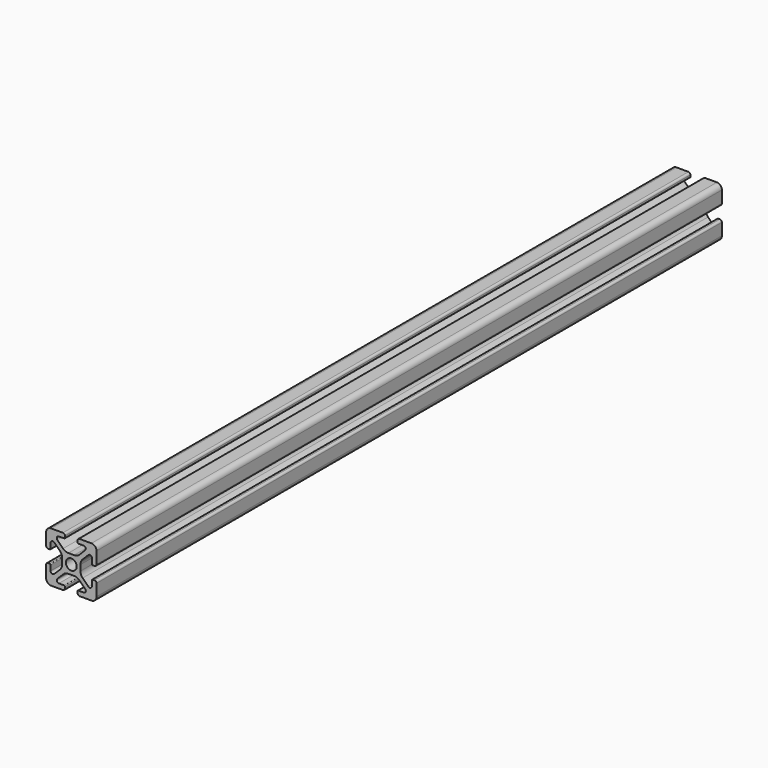
from build123d import *

# Parameters (mm, degrees)
F0_R     = 2.1463
F1_DEPTH = 310


with BuildPart() as f1:
    # F0 (on Front) → F1 (new body)
    with BuildSketch(Plane.XZ):
        with BuildLine():
            Line((-3.2893, 9.9949), (-7.9883, 9.9949))
            ThreePointArc((-7.9883, 9.9949), (-9.40718, 9.40718), (-9.9949, 7.9883))
            Line((-9.9949, 7.9883), (-9.9949, 3.2893))
            ThreePointArc((-9.9949, 3.2893), (-9.764276, 2.732524), (-9.2075, 2.5019))
            Line((-9.2075, 2.5019), (-8.4963, 2.5019))
            ThreePointArc((-8.4963, 2.5019), (-8.280774, 2.591174), (-8.1915, 2.8067))
            Line((-8.1915, 2.8067), (-8.1915, 4.9149))
            ThreePointArc((-8.1915, 4.9149), (-7.674065, 5.689296), (-6.760603, 5.507597))
            Line((-6.760603, 5.507597), (-4.505766, 3.25276))
            ThreePointArc((-4.505766, 3.25276), (-3.856054, 2.280398), (-3.627906, 1.133419))
            Line((-3.627906, 1.133419), (-3.627906, -1.133419))
            ThreePointArc((-3.627906, -1.133419), (-3.856054, -2.280398), (-4.505766, -3.25276))
            Line((-4.505766, -3.25276), (-6.760603, -5.507597))
            ThreePointArc((-6.760603, -5.507597), (-7.674065, -5.689296), (-8.1915, -4.9149))
            Line((-8.1915, -4.9149), (-8.1915, -2.8067))
            ThreePointArc((-8.1915, -2.8067), (-8.280774, -2.591174), (-8.4963, -2.5019))
            Line((-8.4963, -2.5019), (-9.2075, -2.5019))
            ThreePointArc((-9.2075, -2.5019), (-9.764276, -2.732524), (-9.9949, -3.2893))
            Line((-9.9949, -3.2893), (-9.9949, -7.9883))
            ThreePointArc((-9.9949, -7.9883), (-9.40718, -9.40718), (-7.9883, -9.9949))
            Line((-7.9883, -9.9949), (-3.2893, -9.9949))
            ThreePointArc((-3.2893, -9.9949), (-2.732524, -9.764276), (-2.5019, -9.2075))
            Line((-2.5019, -9.2075), (-2.5019, -8.4963))
            ThreePointArc((-2.5019, -8.4963), (-2.591174, -8.280774), (-2.8067, -8.1915))
            Line((-2.8067, -8.1915), (-4.9149, -8.1915))
            ThreePointArc((-4.9149, -8.1915), (-5.689296, -7.674065), (-5.507597, -6.760603))
            Line((-5.507597, -6.760603), (-3.25276, -4.505766))
            ThreePointArc((-3.25276, -4.505766), (-2.280398, -3.856054), (-1.133419, -3.627906))
            Line((-1.133419, -3.627906), (1.133419, -3.627906))
            ThreePointArc((1.133419, -3.627906), (2.280398, -3.856054), (3.25276, -4.505766))
            Line((3.25276, -4.505766), (5.507597, -6.760603))
            ThreePointArc((5.507597, -6.760603), (5.689296, -7.674065), (4.9149, -8.1915))
            Line((4.9149, -8.1915), (2.8067, -8.1915))
            ThreePointArc((2.8067, -8.1915), (2.591174, -8.280774), (2.5019, -8.4963))
            Line((2.5019, -8.4963), (2.5019, -9.2075))
            ThreePointArc((2.5019, -9.2075), (2.732524, -9.764276), (3.2893, -9.9949))
            Line((3.2893, -9.9949), (7.9883, -9.9949))
            ThreePointArc((7.9883, -9.9949), (9.40718, -9.40718), (9.9949, -7.9883))
            Line((9.9949, -7.9883), (9.9949, -3.2893))
            ThreePointArc((9.9949, -3.2893), (9.764276, -2.732524), (9.2075, -2.5019))
            Line((9.2075, -2.5019), (8.4963, -2.5019))
            ThreePointArc((8.4963, -2.5019), (8.280774, -2.591174), (8.1915, -2.8067))
            Line((8.1915, -2.8067), (8.1915, -4.9149))
            ThreePointArc((8.1915, -4.9149), (7.674065, -5.689296), (6.760603, -5.507597))
            Line((6.760603, -5.507597), (4.505766, -3.25276))
            ThreePointArc((4.505766, -3.25276), (3.856054, -2.280398), (3.627906, -1.133419))
            Line((3.627906, -1.133419), (3.627906, 1.133419))
            ThreePointArc((3.627906, 1.133419), (3.856054, 2.280398), (4.505766, 3.25276))
            Line((4.505766, 3.25276), (6.760603, 5.507597))
            ThreePointArc((6.760603, 5.507597), (7.674065, 5.689296), (8.1915, 4.9149))
            Line((8.1915, 4.9149), (8.1915, 2.8067))
            ThreePointArc((8.1915, 2.8067), (8.280774, 2.591174), (8.4963, 2.5019))
            Line((8.4963, 2.5019), (9.2075, 2.5019))
            ThreePointArc((9.2075, 2.5019), (9.764276, 2.732524), (9.9949, 3.2893))
            Line((9.9949, 3.2893), (9.9949, 7.9883))
            ThreePointArc((9.9949, 7.9883), (9.40718, 9.40718), (7.9883, 9.9949))
            Line((7.9883, 9.9949), (3.2893, 9.9949))
            ThreePointArc((3.2893, 9.9949), (2.732524, 9.764276), (2.5019, 9.2075))
            Line((2.5019, 9.2075), (2.5019, 8.4963))
            ThreePointArc((2.5019, 8.4963), (2.591174, 8.280774), (2.8067, 8.1915))
            Line((2.8067, 8.1915), (4.9149, 8.1915))
            ThreePointArc((4.9149, 8.1915), (5.689296, 7.674065), (5.507597, 6.760603))
            Line((5.507597, 6.760603), (3.25276, 4.505766))
            ThreePointArc((3.25276, 4.505766), (2.280398, 3.856054), (1.133419, 3.627906))
            Line((1.133419, 3.627906), (-1.133419, 3.627906))
            ThreePointArc((-1.133419, 3.627906), (-2.280398, 3.856054), (-3.25276, 4.505766))
            Line((-3.25276, 4.505766), (-5.507597, 6.760603))
            ThreePointArc((-5.507597, 6.760603), (-5.689296, 7.674065), (-4.9149, 8.1915))
            Line((-4.9149, 8.1915), (-2.8067, 8.1915))
            ThreePointArc((-2.8067, 8.1915), (-2.591174, 8.280774), (-2.5019, 8.4963))
            Line((-2.5019, 8.4963), (-2.5019, 9.2075))
            ThreePointArc((-2.5019, 9.2075), (-2.732524, 9.764276), (-3.2893, 9.9949))
        make_face()
        Circle(F0_R, mode=Mode.SUBTRACT)
    extrude(amount=F1_DEPTH)


solid = f1.part
